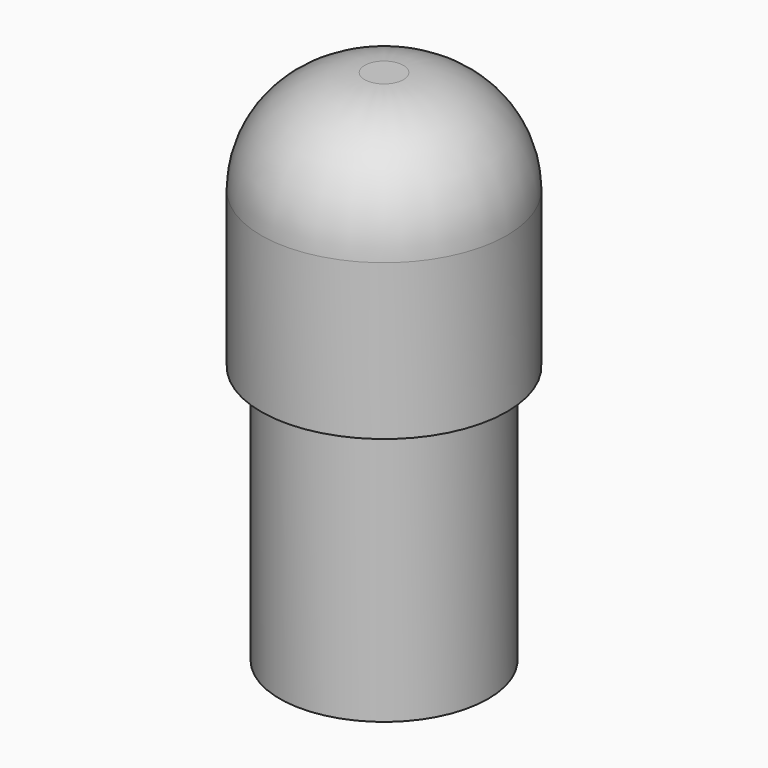
from build123d import *

# Parameters (mm, degrees)
F0_R     = 30.1625
F1_DEPTH = 127
F2_R     = 25.4
F3_R     = 22.0345
F4_DEPTH = 101.6
F5_R     = 30.1625
F5_R_2   = 25.5905
F6_DEPTH = 63.5


with BuildPart() as f1:
    # F0 (on Top) → F1 (new body)
    with BuildSketch(Plane.XY):
        Circle(F0_R)
    extrude(amount=F1_DEPTH)

    # F2
    f2_edges = [f1.edges().sort_by_distance(p)[0] for p in [
        (-30.1625, 0, 127),
    ]]
    fillet(f2_edges, radius=F2_R)

    # F3 (on face) → F4 (cut)
    with BuildSketch(Plane.XY):
        Circle(F3_R)
    extrude(amount=F4_DEPTH, mode=Mode.SUBTRACT)

    # F5 (on face) → F6 (cut)
    with BuildSketch(Plane.XY):
        Circle(F5_R)
        Circle(F5_R_2, mode=Mode.SUBTRACT)
    extrude(amount=F6_DEPTH, mode=Mode.SUBTRACT)


solid = f1.part
